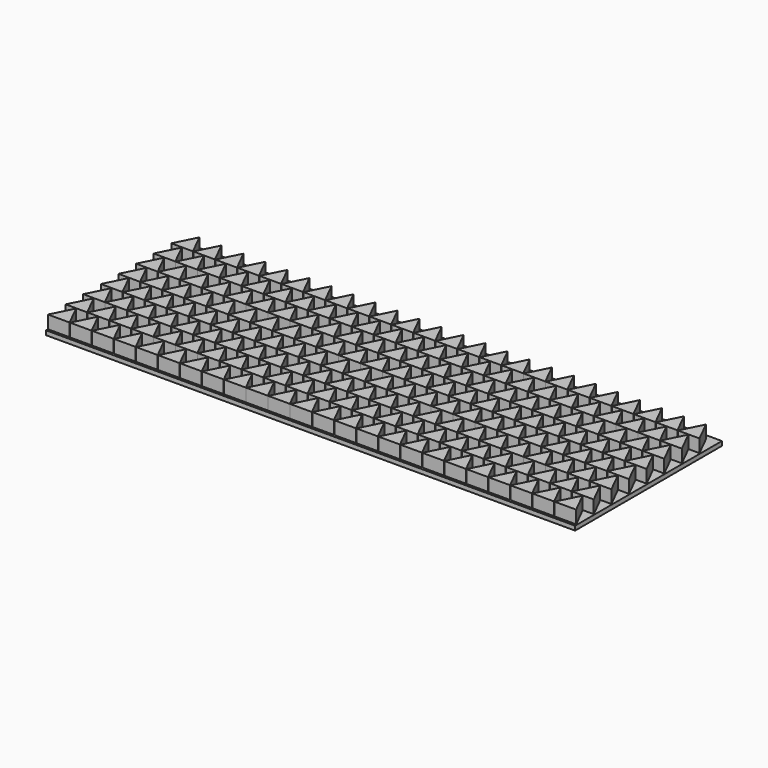
from build123d import *

# Parameters (mm, degrees)
F0_W     = 122.5
F0_H     = 42.5
F1_DEPTH = 1
F3_DEPTH = 3


with BuildPart() as f1:
    # F0 (on Top) → F1 (new body)
    with BuildSketch(Plane.XY):
        Rectangle(F0_W, F0_H)
    extrude(amount=F1_DEPTH)

    # F2 (on face) → F3 (join)
    with BuildSketch(Plane.XY.offset(1)):
        Polygon((-58.75, 20), (-61.25, 15), (-56.25, 15), align=None)
        Polygon((-56.25, 9.9), (-58.75, 14.9), (-61.25, 9.9), align=None)
        Polygon((-56.25, 4.8), (-58.75, 9.8), (-61.25, 4.8), align=None)
        Polygon((-56.25, -0.3), (-58.75, 4.7), (-61.25, -0.3), align=None)
        Polygon((-56.25, -5.4), (-58.75, -0.4), (-61.25, -5.4), align=None)
        Polygon((-56.25, -10.5), (-58.75, -5.5), (-61.25, -10.5), align=None)
        Polygon((-56.25, -15.6), (-58.75, -10.6), (-61.25, -15.6), align=None)
        Polygon((-56.25, -20.7), (-58.75, -15.7), (-61.25, -20.7), align=None)
        Polygon((-51.15, 15), (-53.65, 20), (-56.15, 15), align=None)
        Polygon((-51.15, 9.9), (-53.65, 14.9), (-56.15, 9.9), align=None)
        Polygon((-51.15, 4.8), (-53.65, 9.8), (-56.15, 4.8), align=None)
        Polygon((-51.15, -0.3), (-53.65, 4.7), (-56.15, -0.3), align=None)
        Polygon((-51.15, -5.4), (-53.65, -0.4), (-56.15, -5.4), align=None)
        Polygon((-51.15, -10.5), (-53.65, -5.5), (-56.15, -10.5), align=None)
        Polygon((-51.15, -15.6), (-53.65, -10.6), (-56.15, -15.6), align=None)
        Polygon((-51.15, -20.7), (-53.65, -15.7), (-56.15, -20.7), align=None)
        Polygon((-46.05, 15), (-48.55, 20), (-51.05, 15), align=None)
        Polygon((-46.05, 9.9), (-48.55, 14.9), (-51.05, 9.9), align=None)
        Polygon((-46.05, 4.8), (-48.55, 9.8), (-51.05, 4.8), align=None)
        Polygon((-46.05, -0.3), (-48.55, 4.7), (-51.05, -0.3), align=None)
        Polygon((-46.05, -5.4), (-48.55, -0.4), (-51.05, -5.4), align=None)
        Polygon((-46.05, -10.5), (-48.55, -5.5), (-51.05, -10.5), align=None)
        Polygon((-46.05, -15.6), (-48.55, -10.6), (-51.05, -15.6), align=None)
        Polygon((-46.05, -20.7), (-48.55, -15.7), (-51.05, -20.7), align=None)
        Polygon((-40.95, 15), (-43.45, 20), (-45.95, 15), align=None)
        Polygon((-40.95, 9.9), (-43.45, 14.9), (-45.95, 9.9), align=None)
        Polygon((-40.95, 4.8), (-43.45, 9.8), (-45.95, 4.8), align=None)
        Polygon((-40.95, -0.3), (-43.45, 4.7), (-45.95, -0.3), align=None)
        Polygon((-40.95, -5.4), (-43.45, -0.4), (-45.95, -5.4), align=None)
        Polygon((-40.95, -10.5), (-43.45, -5.5), (-45.95, -10.5), align=None)
        Polygon((-40.95, -15.6), (-43.45, -10.6), (-45.95, -15.6), align=None)
        Polygon((-40.95, -20.7), (-43.45, -15.7), (-45.95, -20.7), align=None)
        Polygon((-35.85, 15), (-38.35, 20), (-40.85, 15), align=None)
        Polygon((-35.85, 9.9), (-38.35, 14.9), (-40.85, 9.9), align=None)
        Polygon((-35.85, 4.8), (-38.35, 9.8), (-40.85, 4.8), align=None)
        Polygon((-35.85, -0.3), (-38.35, 4.7), (-40.85, -0.3), align=None)
        Polygon((-35.85, -5.4), (-38.35, -0.4), (-40.85, -5.4), align=None)
        Polygon((-35.85, -10.5), (-38.35, -5.5), (-40.85, -10.5), align=None)
        Polygon((-35.85, -15.6), (-38.35, -10.6), (-40.85, -15.6), align=None)
        Polygon((-35.85, -20.7), (-38.35, -15.7), (-40.85, -20.7), align=None)
        Polygon((-30.75, 15), (-33.25, 20), (-35.75, 15), align=None)
        Polygon((-30.75, 9.9), (-33.25, 14.9), (-35.75, 9.9), align=None)
        Polygon((-30.75, 4.8), (-33.25, 9.8), (-35.75, 4.8), align=None)
        Polygon((-30.75, -0.3), (-33.25, 4.7), (-35.75, -0.3), align=None)
        Polygon((-30.75, -5.4), (-33.25, -0.4), (-35.75, -5.4), align=None)
        Polygon((-30.75, -10.5), (-33.25, -5.5), (-35.75, -10.5), align=None)
        Polygon((-30.75, -15.6), (-33.25, -10.6), (-35.75, -15.6), align=None)
        Polygon((-30.75, -20.7), (-33.25, -15.7), (-35.75, -20.7), align=None)
        Polygon((-25.65, 15), (-28.15, 20), (-30.65, 15), align=None)
        Polygon((-25.65, 9.9), (-28.15, 14.9), (-30.65, 9.9), align=None)
        Polygon((-25.65, 4.8), (-28.15, 9.8), (-30.65, 4.8), align=None)
        Polygon((-25.65, -0.3), (-28.15, 4.7), (-30.65, -0.3), align=None)
        Polygon((-25.65, -5.4), (-28.15, -0.4), (-30.65, -5.4), align=None)
        Polygon((-25.65, -10.5), (-28.15, -5.5), (-30.65, -10.5), align=None)
        Polygon((-25.65, -15.6), (-28.15, -10.6), (-30.65, -15.6), align=None)
        Polygon((-25.65, -20.7), (-28.15, -15.7), (-30.65, -20.7), align=None)
        Polygon((-20.55, 15), (-23.05, 20), (-25.55, 15), align=None)
        Polygon((-20.55, 9.9), (-23.05, 14.9), (-25.55, 9.9), align=None)
        Polygon((-20.55, 4.8), (-23.05, 9.8), (-25.55, 4.8), align=None)
        Polygon((-20.55, -0.3), (-23.05, 4.7), (-25.55, -0.3), align=None)
        Polygon((-20.55, -5.4), (-23.05, -0.4), (-25.55, -5.4), align=None)
        Polygon((-20.55, -10.5), (-23.05, -5.5), (-25.55, -10.5), align=None)
        Polygon((-20.55, -15.6), (-23.05, -10.6), (-25.55, -15.6), align=None)
        Polygon((-20.55, -20.7), (-23.05, -15.7), (-25.55, -20.7), align=None)
        Polygon((-15.45, 15), (-17.95, 20), (-20.45, 15), align=None)
        Polygon((-15.45, 9.9), (-17.95, 14.9), (-20.45, 9.9), align=None)
        Polygon((-15.45, 4.8), (-17.95, 9.8), (-20.45, 4.8), align=None)
        Polygon((-15.45, -0.3), (-17.95, 4.7), (-20.45, -0.3), align=None)
        Polygon((-15.45, -5.4), (-17.95, -0.4), (-20.45, -5.4), align=None)
        Polygon((-15.45, -10.5), (-17.95, -5.5), (-20.45, -10.5), align=None)
        Polygon((-15.45, -15.6), (-17.95, -10.6), (-20.45, -15.6), align=None)
        Polygon((-15.45, -20.7), (-17.95, -15.7), (-20.45, -20.7), align=None)
        Polygon((-10.35, 15), (-12.85, 20), (-15.35, 15), align=None)
        Polygon((-10.35, 9.9), (-12.85, 14.9), (-15.35, 9.9), align=None)
        Polygon((-10.35, 4.8), (-12.85, 9.8), (-15.35, 4.8), align=None)
        Polygon((-10.35, -0.3), (-12.85, 4.7), (-15.35, -0.3), align=None)
        Polygon((-10.35, -5.4), (-12.85, -0.4), (-15.35, -5.4), align=None)
        Polygon((-10.35, -10.5), (-12.85, -5.5), (-15.35, -10.5), align=None)
        Polygon((-10.35, -15.6), (-12.85, -10.6), (-15.35, -15.6), align=None)
        Polygon((-10.35, -20.7), (-12.85, -15.7), (-15.35, -20.7), align=None)
        Polygon((-5.25, 15), (-7.75, 20), (-10.25, 15), align=None)
        Polygon((-5.25, 9.9), (-7.75, 14.9), (-10.25, 9.9), align=None)
        Polygon((-5.25, 4.8), (-7.75, 9.8), (-10.25, 4.8), align=None)
        Polygon((-5.25, -0.3), (-7.75, 4.7), (-10.25, -0.3), align=None)
        Polygon((-5.25, -5.4), (-7.75, -0.4), (-10.25, -5.4), align=None)
        Polygon((-5.25, -10.5), (-7.75, -5.5), (-10.25, -10.5), align=None)
        Polygon((-5.25, -15.6), (-7.75, -10.6), (-10.25, -15.6), align=None)
        Polygon((-5.25, -20.7), (-7.75, -15.7), (-10.25, -20.7), align=None)
        Polygon((-0.15, 15), (-2.65, 20), (-5.15, 15), align=None)
        Polygon((-0.15, 9.9), (-2.65, 14.9), (-5.15, 9.9), align=None)
        Polygon((-0.15, 4.8), (-2.65, 9.8), (-5.15, 4.8), align=None)
        Polygon((-0.15, -0.3), (-2.65, 4.7), (-5.15, -0.3), align=None)
        Polygon((-0.15, -5.4), (-2.65, -0.4), (-5.15, -5.4), align=None)
        Polygon((-0.15, -10.5), (-2.65, -5.5), (-5.15, -10.5), align=None)
        Polygon((-0.15, -15.6), (-2.65, -10.6), (-5.15, -15.6), align=None)
        Polygon((-0.15, -20.7), (-2.65, -15.7), (-5.15, -20.7), align=None)
        Polygon((4.95, 15), (2.45, 20), (-0.05, 15), align=None)
        Polygon((4.95, 9.9), (2.45, 14.9), (-0.05, 9.9), align=None)
        Polygon((4.95, 4.8), (2.45, 9.8), (-0.05, 4.8), align=None)
        Polygon((4.95, -0.3), (2.45, 4.7), (-0.05, -0.3), align=None)
        Polygon((4.95, -5.4), (2.45, -0.4), (-0.05, -5.4), align=None)
        Polygon((4.95, -10.5), (2.45, -5.5), (-0.05, -10.5), align=None)
        Polygon((4.95, -15.6), (2.45, -10.6), (-0.05, -15.6), align=None)
        Polygon((4.95, -20.7), (2.45, -15.7), (-0.05, -20.7), align=None)
        Polygon((10.05, 15), (7.55, 20), (5.05, 15), align=None)
        Polygon((10.05, 9.9), (7.55, 14.9), (5.05, 9.9), align=None)
        Polygon((10.05, 4.8), (7.55, 9.8), (5.05, 4.8), align=None)
        Polygon((10.05, -0.3), (7.55, 4.7), (5.05, -0.3), align=None)
        Polygon((10.05, -5.4), (7.55, -0.4), (5.05, -5.4), align=None)
        Polygon((10.05, -10.5), (7.55, -5.5), (5.05, -10.5), align=None)
        Polygon((10.05, -15.6), (7.55, -10.6), (5.05, -15.6), align=None)
        Polygon((10.05, -20.7), (7.55, -15.7), (5.05, -20.7), align=None)
        Polygon((15.15, 15), (12.65, 20), (10.15, 15), align=None)
        Polygon((15.15, 9.9), (12.65, 14.9), (10.15, 9.9), align=None)
        Polygon((15.15, 4.8), (12.65, 9.8), (10.15, 4.8), align=None)
        Polygon((15.15, -0.3), (12.65, 4.7), (10.15, -0.3), align=None)
        Polygon((15.15, -5.4), (12.65, -0.4), (10.15, -5.4), align=None)
        Polygon((15.15, -10.5), (12.65, -5.5), (10.15, -10.5), align=None)
        Polygon((15.15, -15.6), (12.65, -10.6), (10.15, -15.6), align=None)
        Polygon((15.15, -20.7), (12.65, -15.7), (10.15, -20.7), align=None)
        Polygon((20.25, 15), (17.75, 20), (15.25, 15), align=None)
        Polygon((20.25, 9.9), (17.75, 14.9), (15.25, 9.9), align=None)
        Polygon((20.25, 4.8), (17.75, 9.8), (15.25, 4.8), align=None)
        Polygon((20.25, -0.3), (17.75, 4.7), (15.25, -0.3), align=None)
        Polygon((20.25, -5.4), (17.75, -0.4), (15.25, -5.4), align=None)
        Polygon((20.25, -10.5), (17.75, -5.5), (15.25, -10.5), align=None)
        Polygon((20.25, -15.6), (17.75, -10.6), (15.25, -15.6), align=None)
        Polygon((20.25, -20.7), (17.75, -15.7), (15.25, -20.7), align=None)
        Polygon((25.35, 15), (22.85, 20), (20.35, 15), align=None)
        Polygon((25.35, 9.9), (22.85, 14.9), (20.35, 9.9), align=None)
        Polygon((25.35, 4.8), (22.85, 9.8), (20.35, 4.8), align=None)
        Polygon((25.35, -0.3), (22.85, 4.7), (20.35, -0.3), align=None)
        Polygon((25.35, -5.4), (22.85, -0.4), (20.35, -5.4), align=None)
        Polygon((25.35, -10.5), (22.85, -5.5), (20.35, -10.5), align=None)
        Polygon((25.35, -15.6), (22.85, -10.6), (20.35, -15.6), align=None)
        Polygon((25.35, -20.7), (22.85, -15.7), (20.35, -20.7), align=None)
        Polygon((30.45, 15), (27.95, 20), (25.45, 15), align=None)
        Polygon((30.45, 9.9), (27.95, 14.9), (25.45, 9.9), align=None)
        Polygon((30.45, 4.8), (27.95, 9.8), (25.45, 4.8), align=None)
        Polygon((30.45, -0.3), (27.95, 4.7), (25.45, -0.3), align=None)
        Polygon((30.45, -5.4), (27.95, -0.4), (25.45, -5.4), align=None)
        Polygon((30.45, -10.5), (27.95, -5.5), (25.45, -10.5), align=None)
        Polygon((30.45, -15.6), (27.95, -10.6), (25.45, -15.6), align=None)
        Polygon((30.45, -20.7), (27.95, -15.7), (25.45, -20.7), align=None)
        Polygon((35.55, 15), (33.05, 20), (30.55, 15), align=None)
        Polygon((35.55, 9.9), (33.05, 14.9), (30.55, 9.9), align=None)
        Polygon((35.55, 4.8), (33.05, 9.8), (30.55, 4.8), align=None)
        Polygon((35.55, -0.3), (33.05, 4.7), (30.55, -0.3), align=None)
        Polygon((35.55, -5.4), (33.05, -0.4), (30.55, -5.4), align=None)
        Polygon((35.55, -10.5), (33.05, -5.5), (30.55, -10.5), align=None)
        Polygon((35.55, -15.6), (33.05, -10.6), (30.55, -15.6), align=None)
        Polygon((35.55, -20.7), (33.05, -15.7), (30.55, -20.7), align=None)
        Polygon((40.65, 15), (38.15, 20), (35.65, 15), align=None)
        Polygon((40.65, 9.9), (38.15, 14.9), (35.65, 9.9), align=None)
        Polygon((40.65, 4.8), (38.15, 9.8), (35.65, 4.8), align=None)
        Polygon((40.65, -0.3), (38.15, 4.7), (35.65, -0.3), align=None)
        Polygon((40.65, -5.4), (38.15, -0.4), (35.65, -5.4), align=None)
        Polygon((40.65, -10.5), (38.15, -5.5), (35.65, -10.5), align=None)
        Polygon((40.65, -15.6), (38.15, -10.6), (35.65, -15.6), align=None)
        Polygon((40.65, -20.7), (38.15, -15.7), (35.65, -20.7), align=None)
        Polygon((45.75, 15), (43.25, 20), (40.75, 15), align=None)
        Polygon((45.75, 9.9), (43.25, 14.9), (40.75, 9.9), align=None)
        Polygon((45.75, 4.8), (43.25, 9.8), (40.75, 4.8), align=None)
        Polygon((45.75, -0.3), (43.25, 4.7), (40.75, -0.3), align=None)
        Polygon((45.75, -5.4), (43.25, -0.4), (40.75, -5.4), align=None)
        Polygon((45.75, -10.5), (43.25, -5.5), (40.75, -10.5), align=None)
        Polygon((45.75, -15.6), (43.25, -10.6), (40.75, -15.6), align=None)
        Polygon((45.75, -20.7), (43.25, -15.7), (40.75, -20.7), align=None)
        Polygon((50.85, 15), (48.35, 20), (45.85, 15), align=None)
        Polygon((50.85, 9.9), (48.35, 14.9), (45.85, 9.9), align=None)
        Polygon((50.85, 4.8), (48.35, 9.8), (45.85, 4.8), align=None)
        Polygon((50.85, -0.3), (48.35, 4.7), (45.85, -0.3), align=None)
        Polygon((50.85, -5.4), (48.35, -0.4), (45.85, -5.4), align=None)
        Polygon((50.85, -10.5), (48.35, -5.5), (45.85, -10.5), align=None)
        Polygon((50.85, -15.6), (48.35, -10.6), (45.85, -15.6), align=None)
        Polygon((50.85, -20.7), (48.35, -15.7), (45.85, -20.7), align=None)
        Polygon((55.95, 15), (53.45, 20), (50.95, 15), align=None)
        Polygon((55.95, 9.9), (53.45, 14.9), (50.95, 9.9), align=None)
        Polygon((55.95, 4.8), (53.45, 9.8), (50.95, 4.8), align=None)
        Polygon((55.95, -0.3), (53.45, 4.7), (50.95, -0.3), align=None)
        Polygon((55.95, -5.4), (53.45, -0.4), (50.95, -5.4), align=None)
        Polygon((55.95, -10.5), (53.45, -5.5), (50.95, -10.5), align=None)
        Polygon((55.95, -15.6), (53.45, -10.6), (50.95, -15.6), align=None)
        Polygon((55.95, -20.7), (53.45, -15.7), (50.95, -20.7), align=None)
        Polygon((61.05, 15), (58.55, 20), (56.05, 15), align=None)
        Polygon((61.05, 9.9), (58.55, 14.9), (56.05, 9.9), align=None)
        Polygon((61.05, 4.8), (58.55, 9.8), (56.05, 4.8), align=None)
        Polygon((61.05, -0.3), (58.55, 4.7), (56.05, -0.3), align=None)
        Polygon((61.05, -5.4), (58.55, -0.4), (56.05, -5.4), align=None)
        Polygon((61.05, -10.5), (58.55, -5.5), (56.05, -10.5), align=None)
        Polygon((61.05, -15.6), (58.55, -10.6), (56.05, -15.6), align=None)
        Polygon((61.05, -20.7), (58.55, -15.7), (56.05, -20.7), align=None)
    extrude(amount=F3_DEPTH)


solid = f1.part
